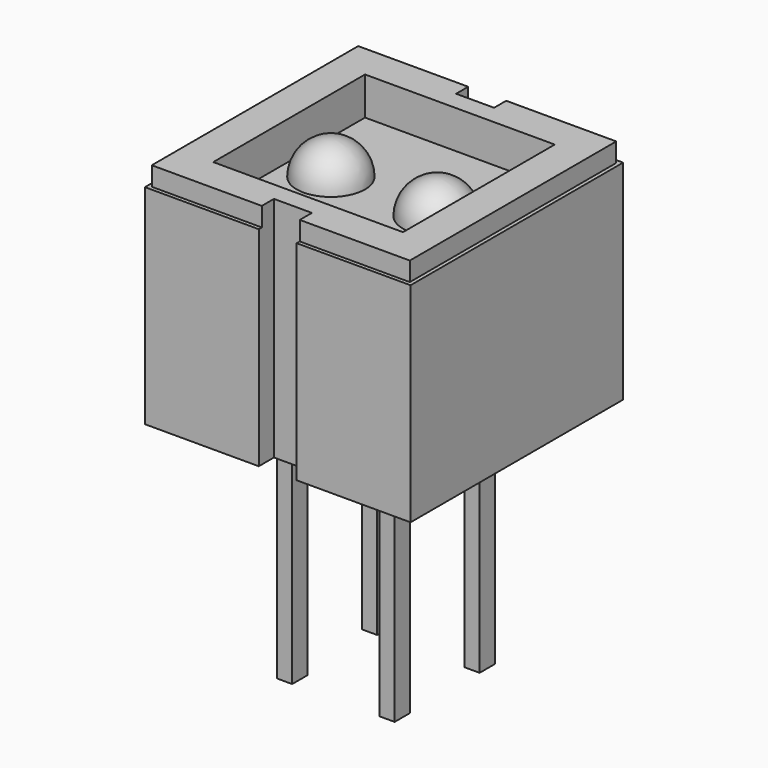
from build123d import *

# Parameters (mm, degrees)
BOX001_W        = 5
BOX001_H        = 5
BOX001_DEPTH    = 1
BOX002_W        = 6.8
BOX002_H        = 6.8
BOX002_DEPTH    = 0.5
BOX_W           = 7
BOX_H           = 7
BOX_DEPTH       = 5.5
SKETCH_W        = 1
SKETCH_H        = 6
POCKET_DEPTH    = 0.5
SKETCH001_W     = 1
SKETCH001_H     = 6
POCKET001_DEPTH = 0.5
SKETCH002_W     = 0.4
SKETCH002_H     = 0.5
PAD_DEPTH       = 6


with BuildPart() as obj1:
    # Sphere001 → Sphere001 (revolve)
    with BuildSketch(Plane(origin=(4.9, 3.5, 5), x_dir=(1, 0, 0), z_dir=(0, -1, 0))):
        with BuildLine():
            ThreePointArc((0, -0.9), (0.9, 0), (0, 0.9))
            Line((0, 0.9), (0, -0.9))
        make_face()
    revolve(axis=Axis((4.9, 3.5, 5), (0, 0, 1)))


with BuildPart() as obj2:
    # Sphere → Sphere (revolve)
    with BuildSketch(Plane(origin=(2.1, 3.5, 5), x_dir=(1, 0, 0), z_dir=(0, -1, 0))):
        with BuildLine():
            ThreePointArc((0, -0.9), (0.9, 0), (0, 0.9))
            Line((0, 0.9), (0, -0.9))
        make_face()
    revolve(axis=Axis((2.1, 3.5, 5), (0, 0, 1)))


with BuildPart() as cubo001:
    # Box001 → Box001 (new body)
    with BuildSketch(Plane(origin=(1, 1, 5), x_dir=(1, 0, 0), z_dir=(0, 0, 1))):
        with Locations((2.5, 2.5)):
            Rectangle(BOX001_W, BOX001_H)
    extrude(amount=BOX001_DEPTH)


with BuildPart() as cubo002:
    # Box002 → Box002 (new body)
    with BuildSketch(Plane(origin=(0.1, 0.1, 5.5), x_dir=(1, 0, 0), z_dir=(0, 0, 1))):
        with Locations((3.4, 3.4)):
            Rectangle(BOX002_W, BOX002_H)
    extrude(amount=BOX002_DEPTH)


with BuildPart() as obj3:
    # Box → Box (new body)
    with BuildSketch(Plane.XY):
        with Locations((3.5, 3.5)):
            Rectangle(BOX_W, BOX_H)
    extrude(amount=BOX_DEPTH)

    # Fusion: union Cubo002
    add(cubo002.part)

    # Cut: cut Cubo001
    add(cubo001.part, mode=Mode.SUBTRACT)

    # Sketch → Pocket (cut)
    with BuildSketch(Plane.XZ):
        with Locations((3.5, 3)):
            Rectangle(SKETCH_W, SKETCH_H)
    extrude(amount=-POCKET_DEPTH, mode=Mode.SUBTRACT)

    # Sketch001 → Pocket001 (cut)
    with BuildSketch(Plane(origin=(0, 7, 0), x_dir=(-1, 0, 0), z_dir=(0, 1, 0))):
        with Locations((-3.5, 3)):
            Rectangle(SKETCH001_W, SKETCH001_H)
    extrude(amount=-POCKET001_DEPTH, mode=Mode.SUBTRACT)

    # Sketch002 → Pad (new body)
    with BuildSketch(Plane(origin=(0, 0, 0), x_dir=(1, 0, 0), z_dir=(0, 0, -1))):
        with Locations((2.2, -2.1)):
            Rectangle(SKETCH002_W, SKETCH002_H)
        with Locations((4.9, -2.1)):
            Rectangle(SKETCH002_W, SKETCH002_H)
        with Locations((4.9, -4.9)):
            Rectangle(SKETCH002_W, SKETCH002_H)
        with Locations((2.2, -4.9)):
            Rectangle(SKETCH002_W, SKETCH002_H)
    extrude(amount=PAD_DEPTH)

    # Fusion001: union obj1, obj2
    add(obj1.part)
    add(obj2.part)


solid = obj3.part
